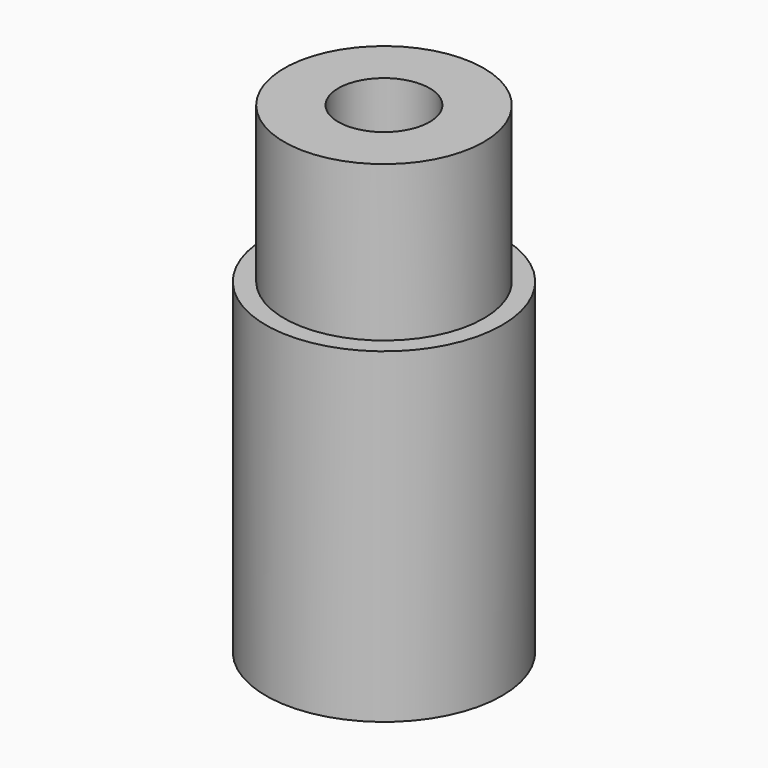
from build123d import *

# Parameters (mm, degrees)
F1_R     = 1.9431
F2_DEPTH = 3.0226
F1_R_2   = 2.2987
F3_DEPTH = 6.35
F5_D     = 1.778


with BuildPart() as f2:
    # F1 (on Top) → F2 (new body)
    with BuildSketch(Plane.XY):
        Circle(F1_R)
    extrude(amount=F2_DEPTH)

    # F1 (on Top) → F3 (join)
    with BuildSketch(Plane.XY):
        Circle(F1_R_2)
        Circle(F1_R, mode=Mode.SUBTRACT)
        Circle(F1_R)
    extrude(amount=-F3_DEPTH)

    # F5 (through all)
    with Locations(Plane(origin=(0, 0, -6.35), x_dir=(1, 0, 0), z_dir=(0, 0, -1))):
        with Locations((0, 0)):
            Hole(F5_D / 2)


solid = f2.part
